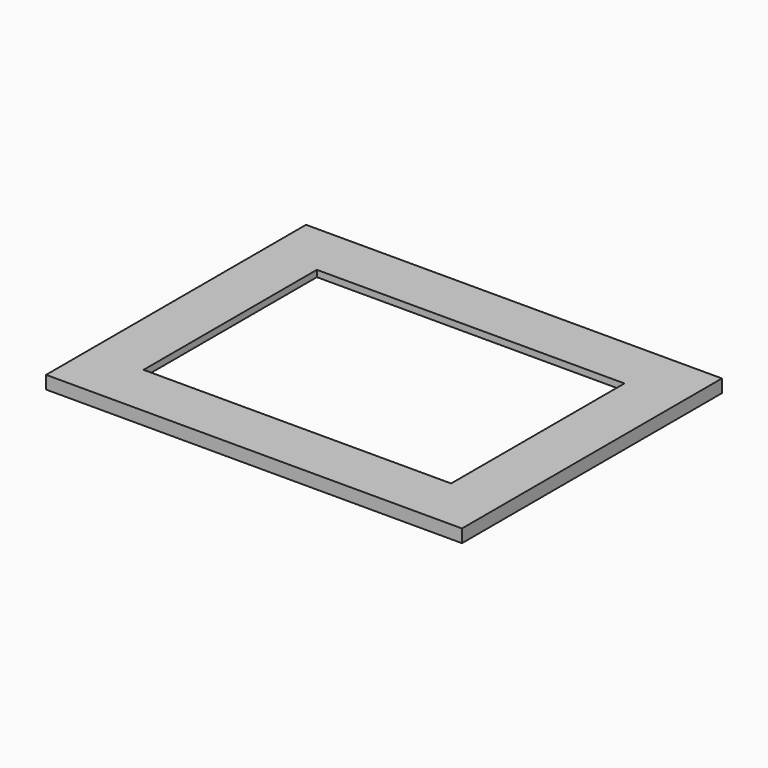
from build123d import *

# Parameters (mm, degrees)
SKETCH_W     = 192
SKETCH_H     = 150
SKETCH_W_2   = 142
SKETCH_H_2   = 100
PAD_DEPTH    = 6
SKETCH001_W  = 156
SKETCH001_H  = 119
POCKET_DEPTH = 3


with BuildPart() as part:
    # Sketch → Pad (new body)
    with BuildSketch(Plane.XY):
        with Locations((1.856875, 0.802246)):
            Rectangle(SKETCH_W, SKETCH_H)
        with Locations((1.856875, 0.802246)):
            Rectangle(SKETCH_W_2, SKETCH_H_2, mode=Mode.SUBTRACT)
    extrude(amount=PAD_DEPTH)

    # Sketch001 (on Face9 of Pad) → Pocket (cut)
    with BuildSketch(Plane(origin=(0, 0, 0), x_dir=(1, 0, 0), z_dir=(0, 0, -1))):
        with Locations((-0.66, 1)):
            Rectangle(SKETCH001_W, SKETCH001_H)
    extrude(amount=-POCKET_DEPTH, mode=Mode.SUBTRACT)


solid = part.part
